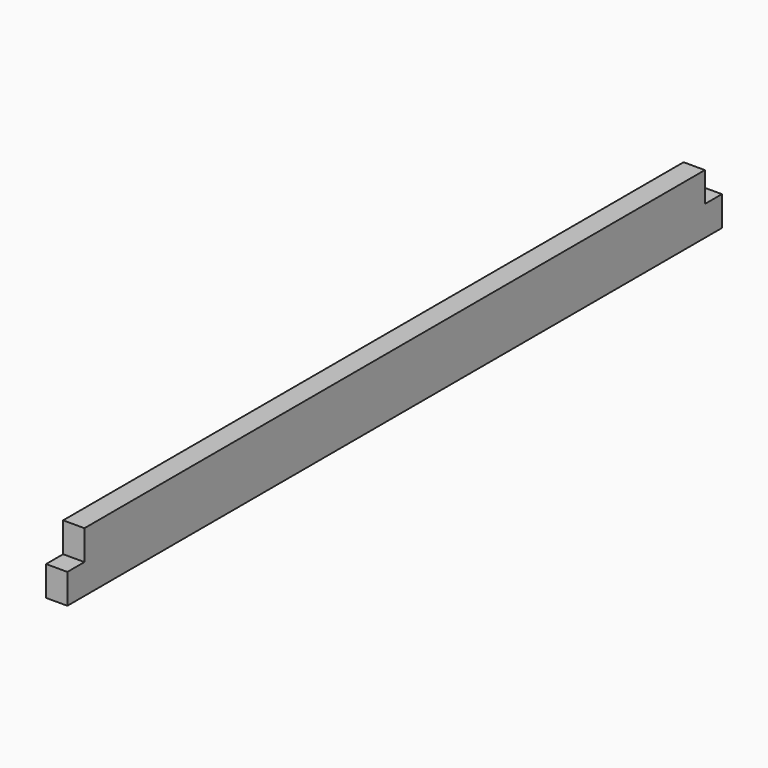
from build123d import *

# Parameters (mm, degrees)
F0_W     = 609.6
F0_H     = 44.45
F1_DEPTH = 15.875
F2_W     = 15.875
F2_H     = 22.225
F3_DEPTH = 15.876


with BuildPart() as f1:
    # F0 (on Right) → F1 (new body)
    with BuildSketch(Plane.YZ):
        Rectangle(F0_W, F0_H)
    extrude(amount=F1_DEPTH)

    # F2 (on face) → F3 (cut, through all)
    with BuildSketch(Plane.YZ.offset(15.875)):
        with Locations((-296.8625, 11.1125)):
            Rectangle(F2_W, F2_H)
        with Locations((296.8625, 11.1125)):
            Rectangle(F2_W, F2_H)
    extrude(amount=-F3_DEPTH, mode=Mode.SUBTRACT)


solid = f1.part
